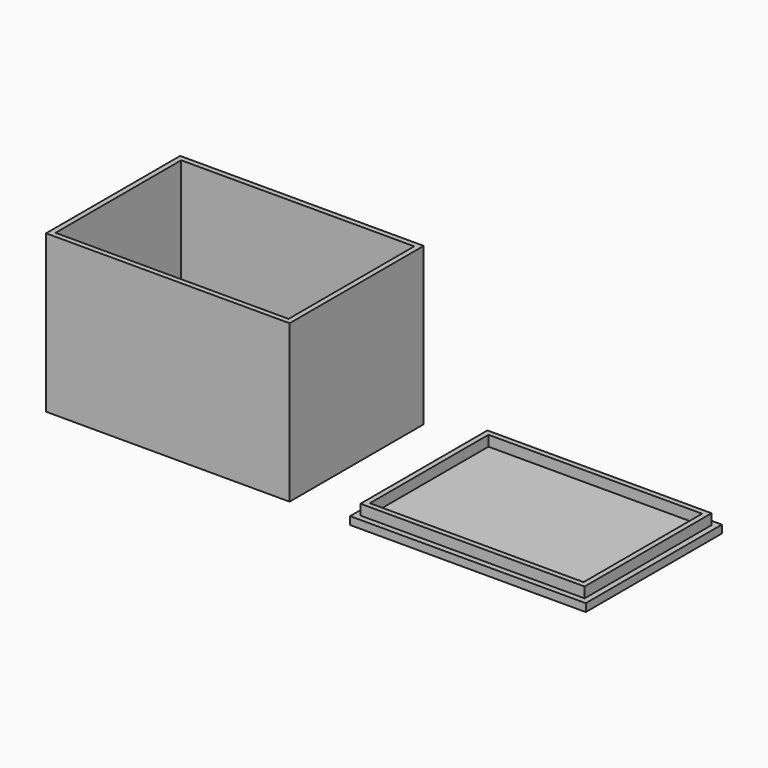
from build123d import *

# Parameters (mm, degrees)
SKETCH_W      = 93
SKETCH_H      = 64
PAD_DEPTH     = 60
SKETCH001_W   = 89
SKETCH001_H   = 60
POCKET_DEPTH  = 55
SKETCH002_R   = 4.5
SKETCH002_R_2 = 1.37
PAD001_DEPTH  = 7
SKETCH003_W   = 90
SKETCH003_H   = 65
PAD002_DEPTH  = 3
SKETCH004_W   = 85.6
SKETCH004_H   = 60.6
SKETCH004_W_2 = 81.6
SKETCH004_H_2 = 56.6
PAD003_DEPTH  = 4


with BuildPart() as box_body_main:
    # Sketch → Pad (new body)
    with BuildSketch(Plane.XY):
        Rectangle(SKETCH_W, SKETCH_H)
    extrude(amount=PAD_DEPTH)

    # Sketch001 (on Face6 of Pad) → Pocket (cut)
    with BuildSketch(Plane.XY.offset(60)):
        Rectangle(SKETCH001_W, SKETCH001_H)
    extrude(amount=-POCKET_DEPTH, mode=Mode.SUBTRACT)

    # Sketch002 (on Face11 of Pocket) → Pad001 (join)
    with BuildSketch(Plane.XY.offset(5)):
        with Locations((-39, 24.5)):
            Circle(SKETCH002_R)
        with Locations((-39, 24.5)):
            Circle(SKETCH002_R_2, mode=Mode.SUBTRACT)
        with Locations((19, 24.5)):
            Circle(SKETCH002_R)
        with Locations((19, 24.5)):
            Circle(SKETCH002_R_2, mode=Mode.SUBTRACT)
        with Locations((-39, -24.5)):
            Circle(SKETCH002_R)
        with Locations((-39, -24.5)):
            Circle(SKETCH002_R_2, mode=Mode.SUBTRACT)
        with Locations((19, -24.5)):
            Circle(SKETCH002_R)
        with Locations((19, -24.5)):
            Circle(SKETCH002_R_2, mode=Mode.SUBTRACT)
    extrude(amount=PAD001_DEPTH)


with BuildPart() as cover_lid:
    # Sketch003 → Pad002 (new body)
    with BuildSketch(Plane.XY):
        with Locations((115, 0)):
            Rectangle(SKETCH003_W, SKETCH003_H)
    extrude(amount=PAD002_DEPTH)

    # Sketch004 (on Face6 of Pad002) → Pad003 (join)
    with BuildSketch(Plane.XY.offset(3)):
        with Locations((115, 0)):
            Rectangle(SKETCH004_W, SKETCH004_H)
        with Locations((115, 0)):
            Rectangle(SKETCH004_W_2, SKETCH004_H_2, mode=Mode.SUBTRACT)
    extrude(amount=PAD003_DEPTH)


solid = Compound([box_body_main.part, cover_lid.part])
